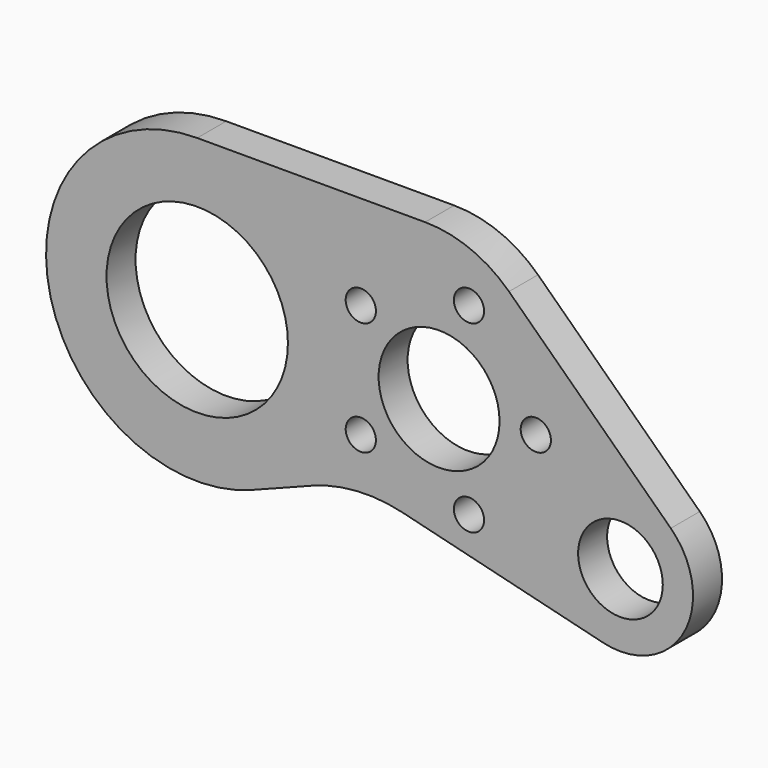
from build123d import *

# Parameters (mm, degrees)
F0_R     = 2.5
F0_R_2   = 7
F0_R_3   = 15
F0_R_4   = 10
F1_DEPTH = 6


with BuildPart() as f1:
    # F0 (on Front) → F1 (new body)
    with BuildSketch(Plane.XZ):
        with BuildLine():
            Line((37.689998, 25), (0, 25))
            ThreePointArc((0, 25), (-24.573155, -4.600004), (9.042928, -23.307197))
            Line((9.042928, -23.307197), (18.961279, -19.45899))
            ThreePointArc((18.961279, -19.45899), (26.3962, -17.817954), (33.98027, -18.49096))
            Line((33.98027, -18.49096), (67.13149, -26.652109))
            ThreePointArc((67.13149, -26.652109), (80.508551, -20.793993), (78.322499, -6.355001))
            Line((78.322499, -6.355001), (51.56083, 19.408331))
            ThreePointArc((51.56083, 19.408331), (45.167744, 23.549483), (37.689998, 25))
        make_face()
        with Locations((27.055728, -9.404564)):
            Circle(F0_R, mode=Mode.SUBTRACT)
        with Locations((44.944272, -15.216904)):
            Circle(F0_R, mode=Mode.SUBTRACT)
        with Locations((70, -15)):
            Circle(F0_R_2, mode=Mode.SUBTRACT)
        Circle(F0_R_3, mode=Mode.SUBTRACT)
        with Locations((27.055728, 9.404564)):
            Circle(F0_R, mode=Mode.SUBTRACT)
        with Locations((40, 0)):
            Circle(F0_R_4, mode=Mode.SUBTRACT)
        with Locations((56, 0)):
            Circle(F0_R, mode=Mode.SUBTRACT)
        with Locations((44.944272, 15.216904)):
            Circle(F0_R, mode=Mode.SUBTRACT)
    extrude(amount=F1_DEPTH)


solid = f1.part
